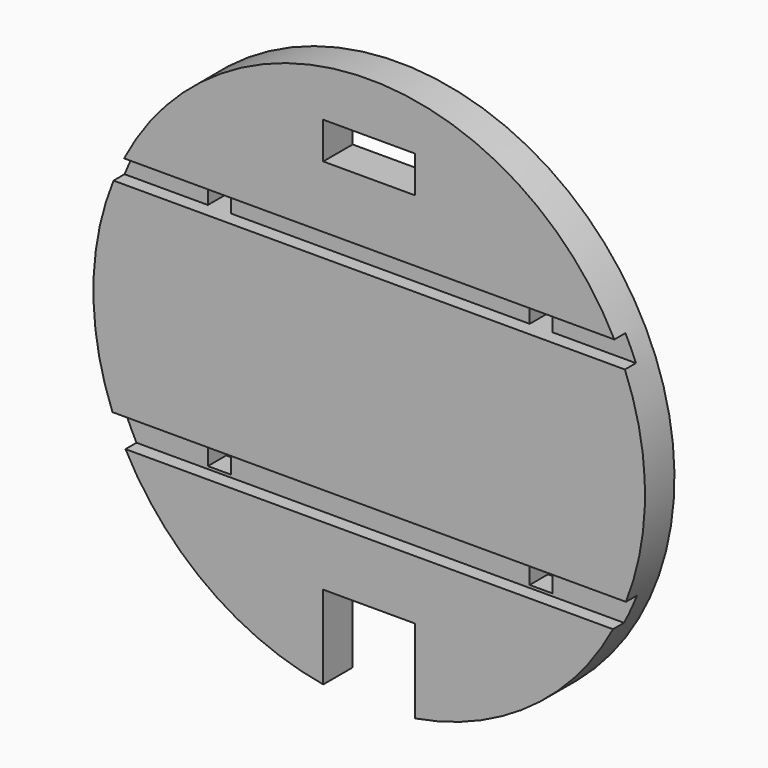
from build123d import *

# Parameters (mm, degrees)
F0_R     = 60
F1_DEPTH = 8
F2_W     = 70
F2_H     = 2.5
F2_H_2   = 3.077762
F3_DEPTH = 3
F4_W     = 2.5
F4_H     = 2.5
F5_DEPTH = 8.001
F7_DEPTH = 8.001
F9_DEPTH = 8.001


with BuildPart() as f1:
    # F0 (on Front) → F1 (new body)
    with BuildSketch(Plane.XZ):
        Circle(F0_R)
    extrude(amount=F1_DEPTH)

    # F2 (on face) → F3 (cut)
    with BuildSketch(Plane.XZ.offset(8)):
        with BuildLine():
            Line((-35, 25), (35, 25))
            Line((35, 25), (35, 22.5))
            Line((35, 22.5), (55.621489, 22.5))
            ThreePointArc((55.621489, 22.5), (54.531492, 25.026314), (53.326823, 27.5))
            Line((53.326823, 27.5), (-53.326823, 27.5))
            ThreePointArc((-53.326823, 27.5), (-54.531492, 25.026314), (-55.621489, 22.5))
            Line((-55.621489, 22.5), (-35, 22.5))
            Line((-35, 22.5), (-35, 25))
        make_face()
        with Locations((0, 23.75)):
            Rectangle(F2_W, F2_H)
        with BuildLine():
            Line((55.851728, -21.922238), (35, -21.922238))
            Line((35, -21.922238), (35, -25))
            Line((35, -25), (-35, -25))
            Line((-35, -25), (-35, -21.922238))
            Line((-35, -21.922238), (-55.851728, -21.922238))
            ThreePointArc((-55.851728, -21.922238), (-54.525244, -25.039923), (-53.024893, -28.077762))
            Line((-53.024893, -28.077762), (53.024893, -28.077762))
            ThreePointArc((53.024893, -28.077762), (54.525244, -25.039923), (55.851728, -21.922238))
        make_face()
        with Locations((0, -23.461119)):
            Rectangle(F2_W, F2_H_2)
    extrude(amount=-F3_DEPTH, mode=Mode.SUBTRACT)

    # F4 (on face) → F5 (cut, through all)
    with BuildSketch(Plane.XZ.offset(8)):
        Polygon((-35, 25), (-32.5, 25), (-32.5, 27.5), (-37.5, 27.5), (-37.5, 22.5), (-35, 22.5), align=None)
        with Locations((-33.75, 23.75)):
            Rectangle(F4_W, F4_H)
        Polygon((32.5, 25), (35, 25), (35, 22.5), (37.5, 22.5), (37.5, 27.5), (32.5, 27.5), align=None)
        with Locations((33.75, 23.75)):
            Rectangle(F4_W, F4_H)
        Polygon((37.5, -22.5), (35, -22.5), (35, -25), (32.5, -25), (32.5, -27.5), (37.5, -27.5), align=None)
        with Locations((33.75, -23.75)):
            Rectangle(F4_W, F4_H)
        Polygon((-35, -25), (-35, -22.5), (-37.5, -22.5), (-37.5, -27.5), (-32.5, -27.5), (-32.5, -25), align=None)
        with Locations((-33.75, -23.75)):
            Rectangle(F4_W, F4_H)
    extrude(amount=-F5_DEPTH, mode=Mode.SUBTRACT)

    # F6 (on face) → F7 (cut, through all)
    with BuildSketch(Plane.XZ.offset(8)):
        Polygon((-10, 41), (0, 41), (10, 41), (10, 49), (-10, 49), align=None)
        Polygon((10, -41), (0, -41), (-10, -41), (-10, -49), (10, -49), align=None)
    extrude(amount=-F7_DEPTH, mode=Mode.SUBTRACT)

    # F8 (on face) → F9 (cut, through all)
    with BuildSketch(Plane(origin=(0, 0, 0), x_dir=(-1, 0, 0), z_dir=(0, 1, 0))):
        with BuildLine():
            Line((10, -49), (-10, -49))
            Line((-10, -49), (-10, -59.160798))
            ThreePointArc((-10, -59.160798), (0, -60), (10, -59.160798))
            Line((10, -59.160798), (10, -49))
        make_face()
    extrude(amount=-F9_DEPTH, mode=Mode.SUBTRACT)


solid = f1.part
